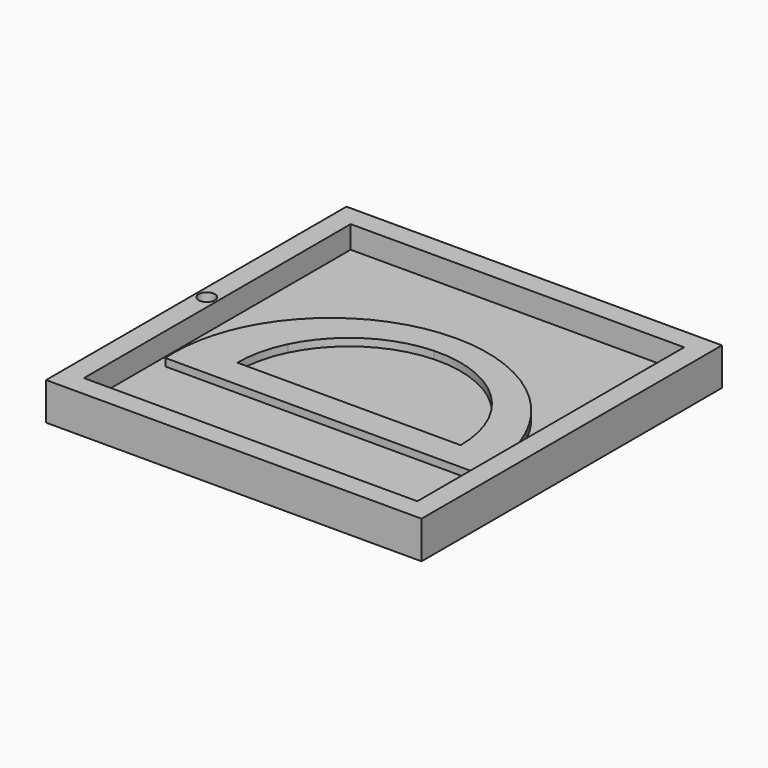
from build123d import *

# Parameters (mm, degrees)
F1_DEPTH = 12.7
F2_DEPTH = 5.08
F3_DEPTH = 7.62
F4_DEPTH = 5.08
F6_DEPTH = 25.4


with BuildPart() as f1:
    # F0 (on Top) → F1 (new body)
    with BuildSketch(Plane.XY):
        Polygon((56.388, -56.388), (0, -56.388), (0, -63.5), (63.5, -63.5), (63.5, 0), (56.388, 0), align=None)
        Polygon((0, -63.5), (0, -56.388), (-56.388, -56.388), (-56.388, 0), (-56.388, 56.388), (0, 56.388), (0, 63.5), (-63.5, 63.5), (-63.5, 0), (-63.5, -63.5), align=None)
        Polygon((0, 63.5), (0, 56.388), (56.388, 56.388), (56.388, 0), (63.5, 0), (63.5, 63.5), align=None)
    extrude(amount=F1_DEPTH)

    # F0 (on Top) → F2 (join)
    with BuildSketch(Plane.XY):
        with BuildLine():
            ThreePointArc((-47.9661298667, 0), (-28.400414984, 22.1775554869), (0, 30.4284702836))
            Line((0, 30.4284702836), (0, 56.388))
            Line((0, 56.388), (-56.388, 56.388))
            Line((-56.388, 56.388), (-56.388, 0))
            Line((-56.388, 0), (-47.9661298667, 0))
        make_face()
        with BuildLine():
            Line((0, 56.388), (0, 30.4284702836))
            ThreePointArc((0, 30.4284702836), (28.4104578527, 22.1822105281), (47.9835120713, 0))
            Line((47.9835120713, 0), (56.388, 0))
            Line((56.388, 0), (56.388, 56.388))
            Line((56.388, 56.388), (0, 56.388))
        make_face()
        with BuildLine():
            Line((52.9104024172, -26.3461358845), (0, -26.3461358845))
            Line((0, -26.3461358845), (0, -56.388))
            Line((0, -56.388), (56.388, -56.388))
            Line((56.388, -56.388), (56.388, 0))
            Line((56.388, 0), (47.9835120713, 0))
            ThreePointArc((47.9835120713, 0), (52.1388015032, -12.8566826028), (52.9104024172, -26.3461358845))
        make_face()
        with BuildLine():
            Line((0, -56.388), (0, -26.3461358845))
            Line((0, -26.3461358845), (-52.8930202127, -26.3461358845))
            ThreePointArc((-52.8930202127, -26.3461358845), (-52.1214192987, -12.8566826028), (-47.9661298667, 0))
            Line((-47.9661298667, 0), (-56.388, 0))
            Line((-56.388, 0), (-56.388, -56.388))
            Line((-56.388, -56.388), (0, -56.388))
        make_face()
    extrude(amount=F2_DEPTH)

    # F0 (on Top) → F3 (join)
    with BuildSketch(Plane.XY):
        with BuildLine():
            ThreePointArc((-32.5514706385, 0), (-19.2050810918, 15.0924405208), (0, 21.181178901))
            Line((0, 21.181178901), (0, 30.4284702836))
            ThreePointArc((0, 30.4284702836), (-28.400414984, 22.1775554869), (-47.9661298667, 0))
            Line((-47.9661298667, 0), (-32.5514706385, 0))
        make_face()
        with BuildLine():
            Line((0, -26.3461358845), (0, -16.5796671063))
            Line((0, -16.5796671063), (-36.3830365241, -16.5796671063))
            ThreePointArc((-36.3830365241, -16.5796671063), (-35.412685982, -8.0713438506), (-32.5514706385, 0))
            Line((-32.5514706385, 0), (-47.9661298667, 0))
            ThreePointArc((-47.9661298667, 0), (-52.1214192987, -12.8566826028), (-52.8930202127, -26.3461358845))
            Line((-52.8930202127, -26.3461358845), (0, -26.3461358845))
        make_face()
        with BuildLine():
            Line((39.1908325255, -16.5796671063), (0, -16.5796671063))
            Line((0, -16.5796671063), (0, -26.3461358845))
            Line((0, -26.3461358845), (52.9104024172, -26.3461358845))
            ThreePointArc((52.9104024172, -26.3461358845), (52.1388015032, -12.8566826028), (47.9835120713, 0))
            Line((47.9835120713, 0), (35.3592666399, 0))
            ThreePointArc((35.3592666399, 0), (38.2204819834, -8.0713438506), (39.1908325255, -16.5796671063))
        make_face()
        with BuildLine():
            Line((0, 30.4284702836), (0, 21.181178901))
            ThreePointArc((0, 21.181178901), (20.8219345928, 15.8362591598), (35.3592666399, 0))
            Line((35.3592666399, 0), (47.9835120713, 0))
            ThreePointArc((47.9835120713, 0), (28.4104578527, 22.1822105281), (0, 30.4284702836))
        make_face()
    extrude(amount=F3_DEPTH)

    # F0 (on Top) → F4 (join)
    with BuildSketch(Plane.XY):
        with BuildLine():
            Line((-32.5514706385, 0), (0, 0))
            Line((0, 0), (0, 21.181178901))
            ThreePointArc((0, 21.181178901), (-19.2050810918, 15.0924405208), (-32.5514706385, 0))
        make_face()
        with BuildLine():
            Line((0, 21.181178901), (0, 0))
            Line((0, 0), (35.3592666399, 0))
            ThreePointArc((35.3592666399, 0), (20.8219345928, 15.8362591598), (0, 21.181178901))
        make_face()
        with BuildLine():
            Line((35.3592666399, 0), (0, 0))
            Line((0, 0), (0, -16.5796671063))
            Line((0, -16.5796671063), (39.1908325255, -16.5796671063))
            ThreePointArc((39.1908325255, -16.5796671063), (38.2204819834, -8.0713438506), (35.3592666399, 0))
        make_face()
        with BuildLine():
            Line((0, -16.5796671063), (0, 0))
            Line((0, 0), (-32.5514706385, 0))
            ThreePointArc((-32.5514706385, 0), (-35.412685982, -8.0713438506), (-36.3830365241, -16.5796671063))
            Line((-36.3830365241, -16.5796671063), (0, -16.5796671063))
        make_face()
    extrude(amount=F4_DEPTH)

    # F5 (on face) → F6 (cut)
    with BuildSketch(Plane.XY.offset(12.7)):
        with BuildLine():
            ThreePointArc((-62.7227567186, 0), (-59.944, -2.7787567186), (-57.1652432814, 0))
            Line((-57.1652432814, 0), (-62.7227567186, 0))
        make_face()
        with BuildLine():
            Line((-62.7227567186, 0), (-57.1652432814, 0))
            ThreePointArc((-57.1652432814, 0), (-59.944, 2.7787567186), (-62.7227567186, 0))
        make_face()
    extrude(amount=-F6_DEPTH, mode=Mode.SUBTRACT)


solid = f1.part
